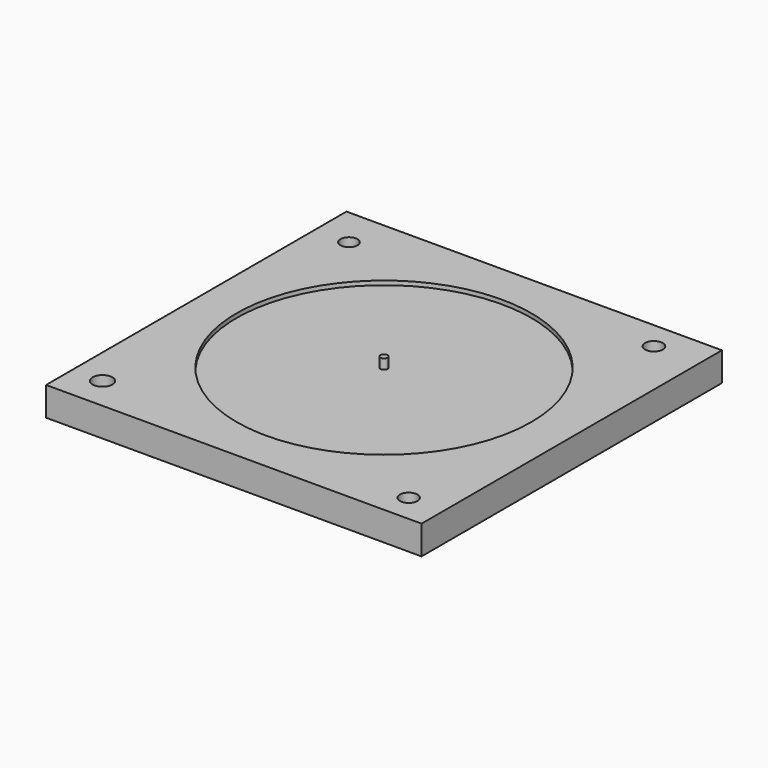
from build123d import *

# Parameters (mm, degrees)
F0_W      = 380
F0_H      = 380
F2_DEPTH  = 25
F1_R      = 149.15
F1_R_2    = 3.6
F3_DEPTH  = 4.2
F4_W      = 380
F4_H      = 380
F4_R      = 149.15
F5_DEPTH  = 4.2
F7_R      = 7.5
F8_DEPTH  = 10
F9_R      = 8.554125
F9_R_2    = 8.992522
F9_R_3    = 8.87954
F9_R_4    = 10
F10_DEPTH = 15
F6_R      = 3.6
F11_DEPTH = 10


with BuildPart() as f2:
    # F0 (on Top) → F2 (new body)
    with BuildSketch(Plane.XY):
        Rectangle(F0_W, F0_H)
    extrude(amount=F2_DEPTH)

    # F1 (on face) → F3 (join)
    with BuildSketch(Plane.XY):
        Circle(F1_R)
        Circle(F1_R_2, mode=Mode.SUBTRACT)
    extrude(amount=F3_DEPTH)

    # F4 (on face) → F5 (join)
    with BuildSketch(Plane.XY.offset(25)):
        Rectangle(F4_W, F4_H)
        Circle(F4_R, mode=Mode.SUBTRACT)
    extrude(amount=F5_DEPTH)

    # F7 (on face) → F8 (cut)
    with BuildSketch(Plane(origin=(0, 0, 0), x_dir=(1, 0, 0), z_dir=(0, 0, -1))):
        with Locations((-150, 150)):
            Circle(F7_R)
        with Locations((-150, -150)):
            Circle(F7_R)
        with Locations((143.270284, -150)):
            Circle(F7_R)
        with Locations((150, 150)):
            Circle(F7_R)
    extrude(amount=-F8_DEPTH, mode=Mode.SUBTRACT)

    # F9 (on face) → F10 (cut)
    with BuildSketch(Plane.XY.offset(29.2)):
        with Locations((-155.689882, 150.298438)):
            Circle(F9_R)
        with Locations((143.746577, 161.758714)):
            Circle(F9_R_2)
        with Locations((154.375539, -161.756462)):
            Circle(F9_R_3)
        with Locations((-159.475569, -156.73067)):
            Circle(F9_R_4)
    extrude(amount=-F10_DEPTH, mode=Mode.SUBTRACT)


with BuildPart() as f11:
    # F6 (on face) → F11 (new body)
    with BuildSketch(Plane.XY.offset(29.2)):
        Circle(F6_R)
    extrude(amount=F11_DEPTH)


solid = Compound([f2.part, f11.part])
